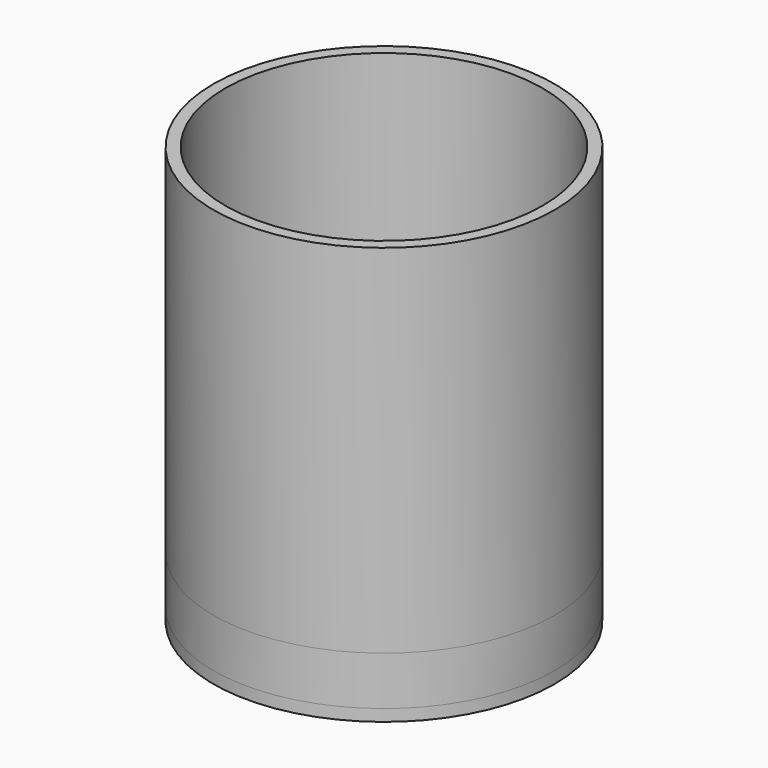
from build123d import *

# Parameters (mm, degrees)
F1_R     = 29
F1_R_2   = 27
F2_DEPTH = 68.948
F3_R     = 29
F3_R_2   = 25
F3_R_3   = 23
F4_DEPTH = 2
F5_DEPTH = 8.284


with BuildPart() as f2:
    # F1 (on face) → F2 (new body)
    with BuildSketch(Plane.XY):
        Circle(F1_R)
        Circle(F1_R_2, mode=Mode.SUBTRACT)
    extrude(amount=F2_DEPTH)

    # F3 (on face) → F4 (join)
    with BuildSketch(Plane(origin=(0, 0, 0), x_dir=(1, 0, 0), z_dir=(0, 0, -1))):
        Circle(F3_R)
        Circle(F3_R_2, mode=Mode.SUBTRACT)
        Circle(F3_R)
        Circle(F3_R_2, mode=Mode.SUBTRACT)
        Circle(F3_R_2)
        Circle(F3_R_3, mode=Mode.SUBTRACT)
    extrude(amount=F4_DEPTH)

    # F3 (on face) → F5 (join)
    with BuildSketch(Plane(origin=(0, 0, 0), x_dir=(1, 0, 0), z_dir=(0, 0, -1))):
        Circle(F3_R)
        Circle(F3_R_2, mode=Mode.SUBTRACT)
    extrude(amount=-F5_DEPTH)


solid = f2.part
